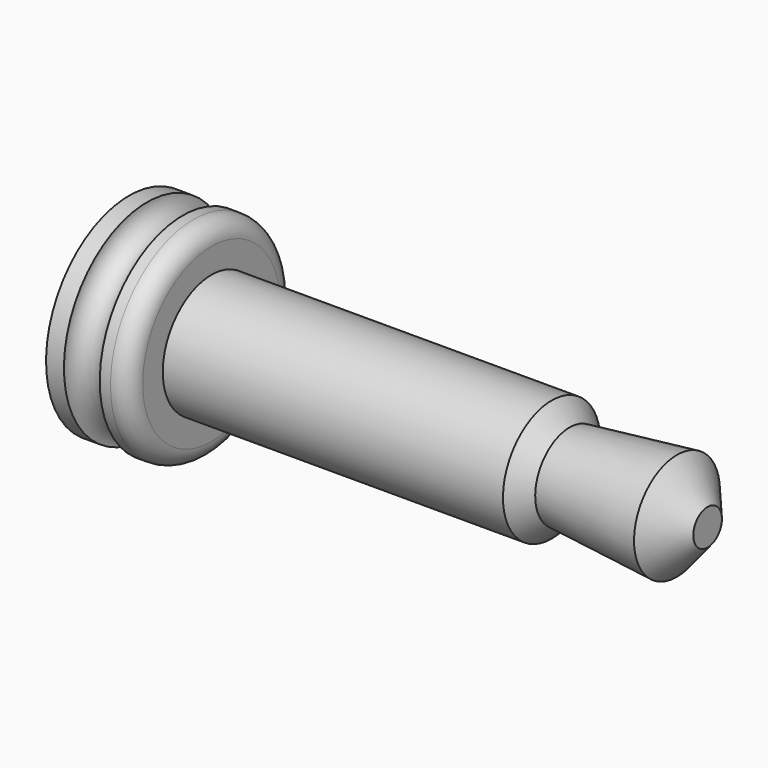
from build123d import *


with BuildPart() as f1:
    # F0 (on Front) → F1 (revolve)
    with BuildSketch(Plane.XZ):
        with BuildLine():
            Line((16.154759, 0), (0, 0))
            Line((0, 0), (0, -2.9))
            Line((0, -2.9), (0.5, -2.9))
            ThreePointArc((0.5, -2.9), (1, -2.4), (1.5, -2.9))
            Line((1.5, -2.9), (1.8, -2.9))
            ThreePointArc((1.8, -2.9), (2.153553, -2.753553), (2.3, -2.4))
            Line((2.3, -2.4), (2.3, -1.7))
            Line((2.3, -1.7), (11.8, -1.7))
            Line((11.8, -1.7), (12.3, -1.2))
            Line((12.3, -1.2), (15.3, -1.5))
            Line((15.3, -1.5), (16.154759, -0.5))
            Line((16.154759, -0.5), (16.154759, 0))
        make_face()
    revolve(axis=Axis((10.82507, 0, 0), (1, 0, 0)))


solid = f1.part
